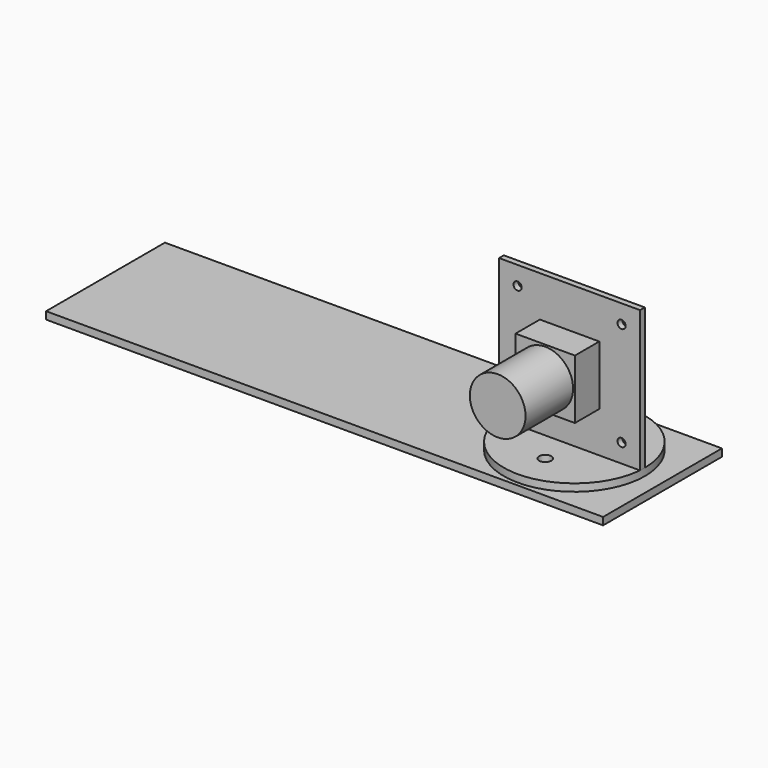
from build123d import *

# Parameters (mm, degrees)
F0_W      = 38
F0_H      = 38
F1_DEPTH  = 1.6
F2_R      = 1.1
F3_DEPTH  = 1.6
F4_W      = 16
F4_H      = 16
F5_DEPTH  = 8.2
F6_R      = 7.5
F7_DEPTH  = 16
F8_R      = 19
F8_R_2    = 1.65
F9_DEPTH  = 2
F12_W     = 150
F12_H     = 40
F13_DEPTH = 2
F14_R     = 1.6
F15_DEPTH = 2


with BuildPart() as f1:
    # F0 (on Front) → F1 (new body)
    with BuildSketch(Plane.XZ):
        Rectangle(F0_W, F0_H)
    extrude(amount=F1_DEPTH)

    # F2 (on face) → F3 (cut, through all)
    with BuildSketch(Plane.XZ.offset(1.6)):
        with Locations((-14, 14)):
            Circle(F2_R)
        with Locations((14, 14)):
            Circle(F2_R)
        with Locations((-14, -14)):
            Circle(F2_R)
        with Locations((14, -14)):
            Circle(F2_R)
    extrude(amount=-F3_DEPTH, mode=Mode.SUBTRACT)

    # F4 (on face) → F5 (join)
    with BuildSketch(Plane.XZ.offset(1.6)):
        Rectangle(F4_W, F4_H)
    extrude(amount=F5_DEPTH)

    # F6 (on face) → F7 (join)
    with BuildSketch(Plane.XZ.offset(9.8)):
        Circle(F6_R)
    extrude(amount=F7_DEPTH)


with BuildPart() as f9:
    # F8 (on face) → F9 (new body)
    with BuildSketch(Plane(origin=(0, 0, -19), x_dir=(1, 0, 0), z_dir=(0, 0, -1))):
        Circle(F8_R)
        with Locations((0, -12)):
            Circle(F8_R_2, mode=Mode.SUBTRACT)
        with Locations((0, 9.8)):
            Circle(F8_R_2, mode=Mode.SUBTRACT)
    extrude(amount=F9_DEPTH)


with BuildPart() as f10_1:
    # F10: copy of F9
    add(f9.part)


with BuildPart() as f13:
    # F12 (on face) → F13 (new body)
    with BuildSketch(Plane(origin=(0, 0, -21), x_dir=(1, 0, 0), z_dir=(0, 0, -1))):
        with Locations((-51.255427, 0)):
            Rectangle(F12_W, F12_H)
    extrude(amount=F13_DEPTH)

    # F14 (on face) → F15 (cut, through all)
    with BuildSketch(Plane.XY.offset(-21)):
        with Locations((0, -9.8)):
            Circle(F14_R)
        with BuildLine():
            ThreePointArc((0, 13.6), (-8.003271, 12.188807), (-15.04123, 8.12544))
            ThreePointArc((-15.04123, 8.12544), (-15.238441, 5.871309), (-12.98431, 5.674098))
            ThreePointArc((-12.98431, 5.674098), (-6.908807, 9.181791), (0, 10.4))
            ThreePointArc((0, 10.4), (6.908807, 9.181791), (12.98431, 5.674098))
            ThreePointArc((12.98431, 5.674098), (15.238441, 5.871309), (15.04123, 8.12544))
            ThreePointArc((15.04123, 8.12544), (8.003271, 12.188807), (0, 13.6))
        make_face()
    extrude(amount=-F15_DEPTH, mode=Mode.SUBTRACT)


solid = Compound([f1.part, f9.part, f13.part])
